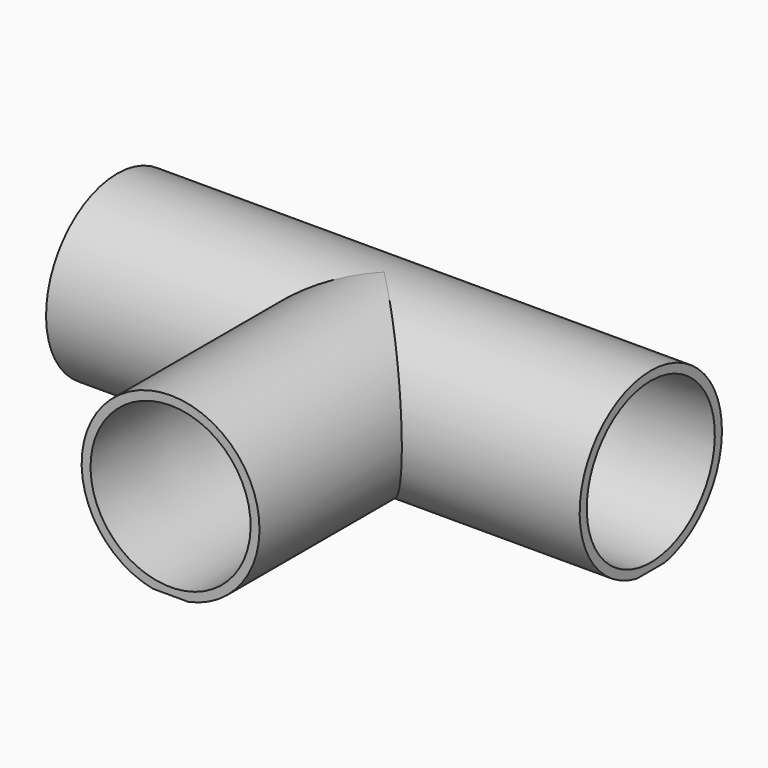
from build123d import *

# Parameters (mm, degrees)
F4_COUNT      = 3
F4_ANGLE      = 180
F5_W          = 152.4
F5_H          = 0.508
F6_DEPTH      = 76.2010001
F6_DEPTH_BACK = 76.2010001


with BuildPart() as f1:
    # F0 (on Front) → F1 (revolve)
    with BuildSketch(Plane.XZ):
        Polygon((76.2, 25.4), (0, 25.4), (0, 21.717), (76.2, 22.86), align=None)
    revolve(axis=Axis((-51.9470935156, 0, 0), (-1, 0, 0)))

    # F4: F1 ×3 about axis
    f4_axis = Axis((0, 0, 5.3851941696), (0, 0, -1))


with BuildPart() as f1_1:
    add(f1.part)
    for i in range(1, F4_COUNT):
        add(f1.part.rotate(f4_axis, i * F4_ANGLE / (F4_COUNT - 1)))

    # F5 (on Right) → F6 (cut, two sides)
    with BuildSketch(Plane.YZ) as f6_sk:
        with Locations((-50.8, -25.146)):
            Rectangle(F5_W, F5_H)
    extrude(amount=-F6_DEPTH, mode=Mode.SUBTRACT)
    extrude(f6_sk.sketch, amount=F6_DEPTH_BACK, mode=Mode.SUBTRACT)


solid = f1_1.part
